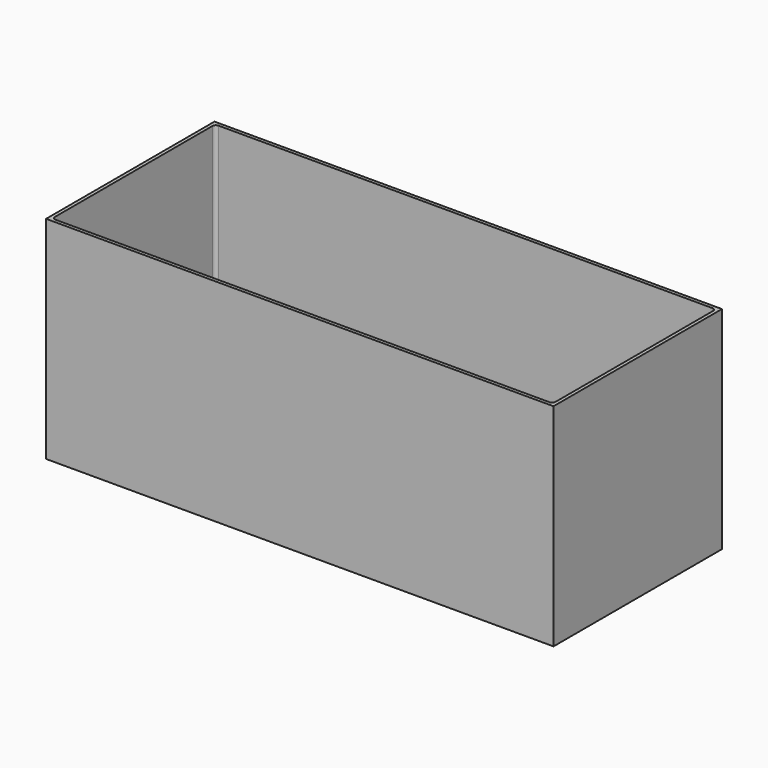
from build123d import *

# Parameters (mm, degrees)
F0_W     = 740
F0_H     = 301.15
F1_DEPTH = 5
F0_W_2   = 750
F0_H_2   = 311.15
F2_DEPTH = 312.5
F3_R     = 5


with BuildPart() as f1:
    # F0 (on Top) → F1 (new body)
    with BuildSketch(Plane.XY):
        with Locations((375, 155.575)):
            Rectangle(F0_W, F0_H)
    extrude(amount=F1_DEPTH)

    # F0 (on Top) → F2 (join)
    with BuildSketch(Plane.XY):
        with Locations((375, 155.575)):
            Rectangle(F0_W_2, F0_H_2)
        with Locations((375, 155.575)):
            Rectangle(F0_W, F0_H, mode=Mode.SUBTRACT)
    extrude(amount=F2_DEPTH)

    # F3
    f3_edges = [f1.edges().sort_by_distance(p)[0] for p in [
        (375, 306.15, 5),
        (5, 155.575, 5),
        (375, 5, 5),
        (745, 155.575, 5),
        (5, 306.15, 158.75),
        (5, 5, 158.75),
        (745, 306.15, 158.75),
        (745, 5, 158.75),
    ]]
    fillet(f3_edges, radius=F3_R)


solid = f1.part
